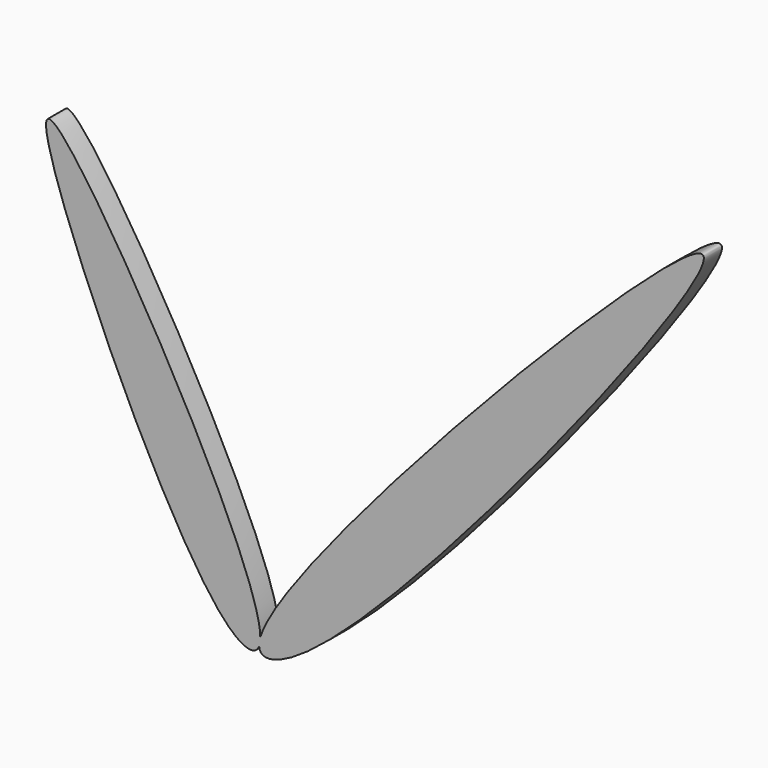
from build123d import *

# Parameters (mm, degrees)
F1_DEPTH = 2


with BuildPart() as f1:
    # F0 (on Front) → F1 (new body)
    with BuildSketch(Plane.XZ):
        with BuildLine():
            add(Edge.make_bspline(
                [(-0.1010256238, -0.7033128904), (-0.0344442415, -0.5168200828), (0.0005084479, -0.282336292), (0, 0)],
                knots=[0.9794818088, 0.9794818088, 0.9794818088, 0.9794818088, 1, 1, 1, 1], degree=3))
            add(Edge.make_bspline(
                [(-0.1010256238, -0.7033128904), (-0.1104681559, -0.5086794286), (-0.0777770764, -0.2741985838), (0, 0)],
                knots=[0.9832460331, 0.9832460331, 0.9832460331, 0.9832460331, 1, 1, 1, 1], degree=3))
        make_face()
        with BuildLine():
            add(Edge.make_bspline(
                [(-0.1010256238, -0.7033128904), (-0.1104681559, -0.5086794286), (-0.0777770764, -0.2741985838), (0, 0)],
                knots=[0.9832460331, 0.9832460331, 0.9832460331, 0.9832460331, 1, 1, 1, 1], degree=3))
            add(Edge.make_bspline(
                [(0, 0), (-0.0109904022, 6.1028656166), (-32.8934532245, 62.5500424007), (-6.1853169387, -0.3812561269), (-0.4250727256, -1.6109608204), (-0.1010256238, -0.7033128904)],
                knots=[0, 0, 0, 0, 0.4435128146, 0.8796211547, 0.9794818088, 0.9794818088, 0.9794818088, 0.9794818088], degree=3))
        make_face()
        with BuildLine():
            add(Edge.make_bspline(
                [(0, 0), (2.0773919033, 7.323724992), (69.8118007067, 77.8603670684), (8.1416143411, -0.6088194951), (-0.0457623716, -1.8424224045), (-0.1010256238, -0.7033128904)],
                knots=[0, 0, 0, 0, 0.4474911726, 0.8851919634, 0.9832460331, 0.9832460331, 0.9832460331, 0.9832460331], degree=3))
            add(Edge.make_bspline(
                [(-0.1010256238, -0.7033128904), (-0.0344442415, -0.5168200828), (0.0005084479, -0.282336292), (0, 0)],
                knots=[0.9794818088, 0.9794818088, 0.9794818088, 0.9794818088, 1, 1, 1, 1], degree=3))
        make_face()
    extrude(amount=F1_DEPTH)


solid = f1.part
